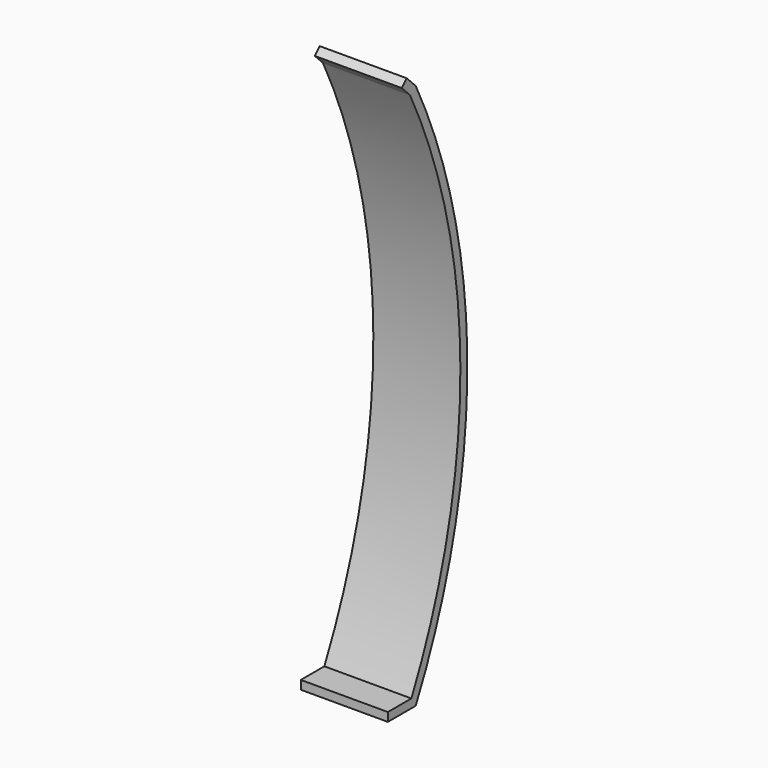
from build123d import *

# Parameters (mm, degrees)
F1_DEPTH = 5


with BuildPart() as f1:
    # F0 (on Right) → F1 (new body)
    with BuildSketch(Plane.YZ):
        with BuildLine():
            Line((0, 0.5), (0, 0))
            Line((0, 0), (2, 0))
            ThreePointArc((2, 0), (5.707211, 15.676777), (2, 31.353553))
            Line((2, 31.353553), (1.353553, 32))
            Line((1.353553, 32), (1, 31.646447))
            Line((1, 31.646447), (1.589002, 31.057444))
            ThreePointArc((1.589002, 31.057444), (5.207023, 15.79048), (1.689713, 0.5))
            Line((1.689713, 0.5), (0, 0.5))
        make_face()
    extrude(amount=F1_DEPTH)


solid = f1.part
